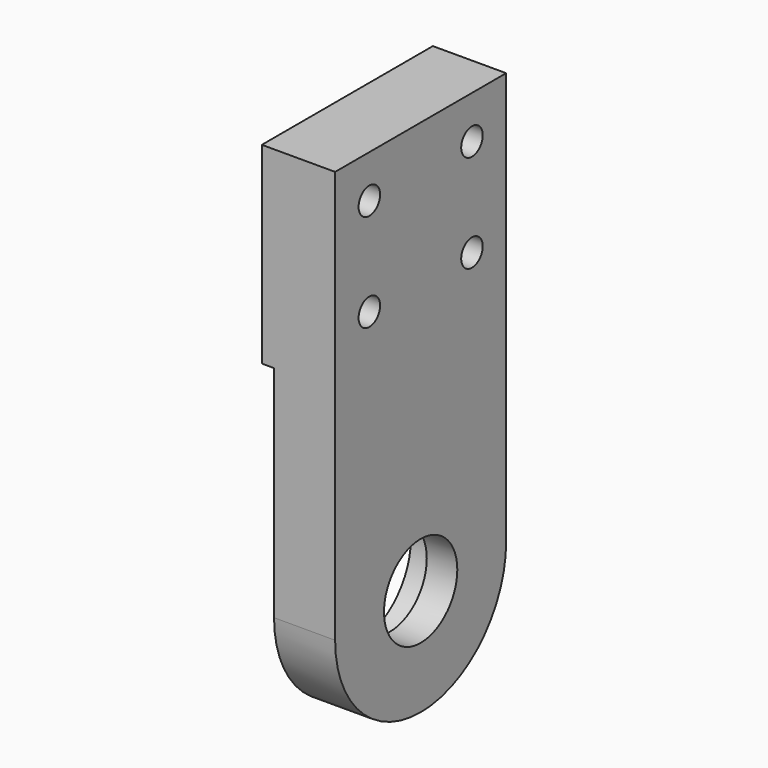
from build123d import *

# Parameters (mm, degrees)
PAD_DEPTH     = 10
SKETCH001_R   = 7.5
HOLE_DEPTH    = 10.001
SKETCH003_R   = 10.5
HOLE002_DEPTH = 5
PAD001_DEPTH  = 2
SKETCH005_R   = 2.2
HOLE003_DEPTH = 12.001


with BuildPart() as part:
    # Sketch → Pad (new body)
    with BuildSketch(Plane.YZ):
        with BuildLine():
            ThreePointArc((-17.5, 0), (1.8e-05, -17.5), (17.5, 3.6e-05))
            Line((17.5, 3.6e-05), (17.5, 67.5))
            Line((-17.5, 67.5), (17.5, 67.5))
            Line((-17.5, 0), (-17.5, 67.5))
        make_face()
    extrude(amount=-PAD_DEPTH)

    # Sketch001 (on Face5 of Pad) → Hole (cut, through all)
    with BuildSketch(Plane.YZ):
        Circle(SKETCH001_R)
    extrude(amount=-HOLE_DEPTH, mode=Mode.SUBTRACT)

    # Sketch003 → Hole002 (cut)
    with BuildSketch(Plane(origin=(-10, 0, 0), x_dir=(0, 1, 0), z_dir=(-1, 0, 0))):
        Circle(SKETCH003_R)
    extrude(amount=-HOLE002_DEPTH, mode=Mode.SUBTRACT)

    # Sketch004 (on Face6 of Pad) → Pad001 (join)
    with BuildSketch(Plane(origin=(-10, 0, 0), x_dir=(0, 1, 0), z_dir=(-1, 0, 0))):
        with BuildLine():
            Line((-17.5, -35.968736), (-17.5, -67.5))
            Line((-17.5, -67.5), (17.5, -67.5))
            Line((17.5, -67.5), (17.5, -35.968736))
            ThreePointArc((13.919411, -37.5), (15.728351, -36.777968), (17.5, -35.968736))
            Line((-13.919411, -37.5), (13.919411, -37.5))
            ThreePointArc((-17.5, -35.968736), (-15.728351, -36.777968), (-13.919411, -37.5))
        make_face()
    extrude(amount=PAD001_DEPTH)

    # Sketch005 (on Face15 of Pad001) → Hole003 (cut, through all)
    with BuildSketch(Plane(origin=(-12, 0, 0), x_dir=(0, 1, 0), z_dir=(-1, 0, 0))):
        with Locations((-10.5, -44.5)):
            Circle(SKETCH005_R)
        with Locations((-10.5, -60.5)):
            Circle(SKETCH005_R)
        with Locations((10.5, -44.5)):
            Circle(SKETCH005_R)
        with Locations((10.5, -60.5)):
            Circle(SKETCH005_R)
    extrude(amount=-HOLE003_DEPTH, mode=Mode.SUBTRACT)


solid = part.part
